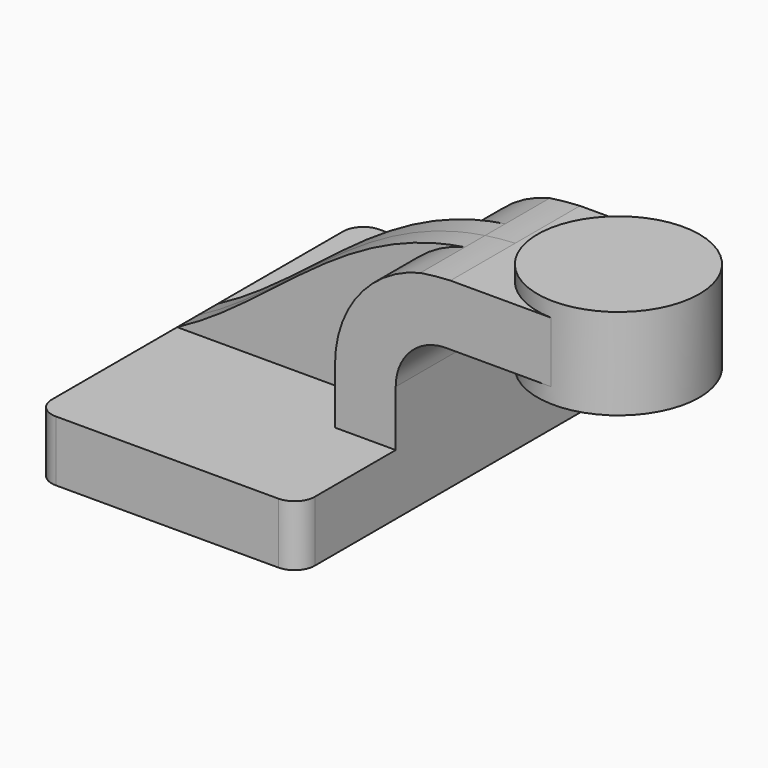
from build123d import *

# Parameters (mm, degrees)
F1_DEPTH = 63.5
F0_W     = 24.486841
F0_H     = 19.05
F2_DEPTH = 25.4
F3_DEPTH = 7.9375
F5_R     = 6.35


with BuildPart() as f1:
    # F0 (on Front) → F1 (new body, symmetric)
    with BuildSketch(Plane.XZ):
        Polygon((22.225, 9.525), (-41.275, 9.525), (-41.275, -9.525), (41.275, -9.525), (41.275, 9.525), align=None)
    extrude(amount=F1_DEPTH, both=True)

    # F0 (on Front) → F2 (join, symmetric)
    with BuildSketch(Plane.XZ):
        with BuildLine():
            Line((22.225, 27.024607), (22.225, 9.525))
            Line((22.225, 9.525), (41.275, 9.525))
            Line((41.275, 9.525), (41.275, 27.024607))
            ThreePointArc((41.275, 27.024607), (46.240227, 38.556844), (58.029959, 42.8752))
            Line((58.029959, 42.8752), (65.447114, 42.8752))
            Line((65.447114, 42.8752), (65.447114, 61.9252))
            Line((65.447114, 61.9252), (58.455464, 61.9252))
            add(Edge.make_bspline(
                [(49.01163, 60.988154), (52.041988, 61.446427), (55.185381, 61.764423), (58.455464, 61.9252)],
                knots=[104.564463, 104.564463, 104.564463, 104.564463, 112.658539, 112.658539, 112.658539, 112.658539], degree=3))
            ThreePointArc((49.01163, 60.988154), (29.727489, 48.652402), (22.225, 27.024607))
        make_face()
        with Locations((77.690534, 52.4002)):
            Rectangle(F0_W, F0_H)
    extrude(amount=F2_DEPTH, both=True)

    # F0 (on Front) → F3 (join, symmetric)
    with BuildSketch(Plane.XZ):
        with BuildLine():
            add(Edge.make_bspline(
                [(-41.275, 9.525), (-10.419927, 25.736817), (9.863519, 55.0679), (49.01163, 60.988154)],
                knots=[0, 0, 0, 0, 104.564463, 104.564463, 104.564463, 104.564463], degree=3))
            Line((-41.275, 9.525), (22.225, 9.525))
            Line((22.225, 9.525), (22.225, 27.024607))
            ThreePointArc((22.225, 27.024607), (29.727489, 48.652402), (49.01163, 60.988154))
        make_face()
    extrude(amount=F3_DEPTH, both=True)

    # F0 (on Front) → F4 (revolve)
    with BuildSketch(Plane.XZ):
        Polygon((116.247114, 66.675), (90.847114, 66.675), (90.847114, 52.3875), (90.847114, 38.1), (116.247114, 38.1), align=None)
    revolve(axis=Axis((90.847114, 0, 52.3875), (0, 0, 1)))

    # F5
    f5_edges = [f1.edges().sort_by_distance(p)[0] for p in [
        (41.275, -63.5, 0),
        (-41.275, -63.5, 0),
        (41.275, 63.5, 0),
        (-41.275, 63.5, 0),
    ]]
    fillet(f5_edges, radius=F5_R)


solid = f1.part
